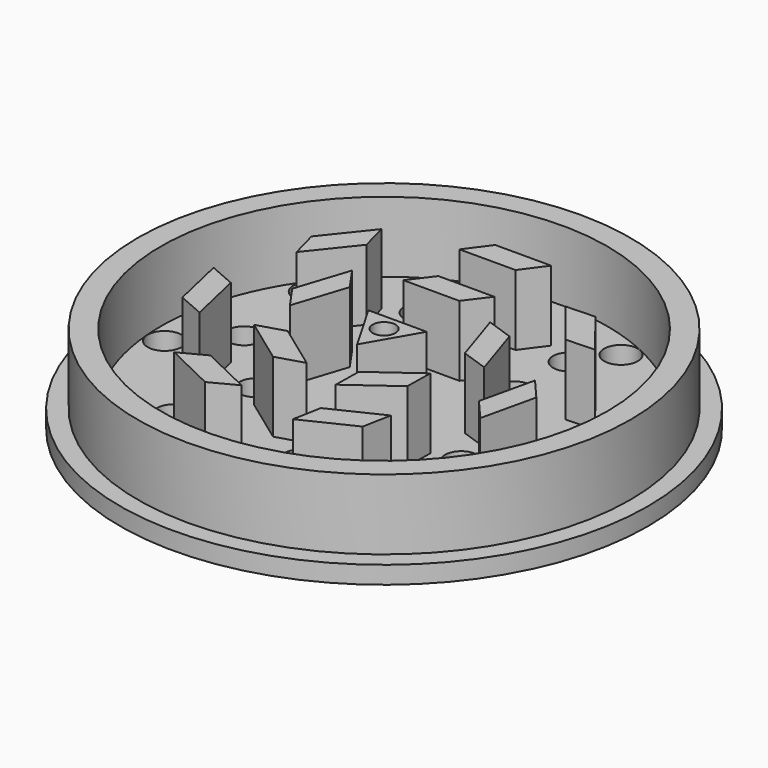
from build123d import *

# Parameters (mm, degrees)
F0_R     = 38.1
F2_DEPTH = 2.54
F1_R     = 35.56
F1_R_2   = 1.651
F3_DEPTH = 10.16
F4_R     = 2.4379748878
F4_R_2   = 2.3255862578
F4_R_3   = 2.3096296398
F5_DEPTH = 2.541
F6_R     = 33.02
F6_R_2   = 32.2280056546
F7_DEPTH = 10.16


with BuildPart() as f2:
    # F0 (on Top) → F2 (new body)
    with BuildSketch(Plane.XY):
        Circle(F0_R)
    extrude(amount=-F2_DEPTH)

    # F1 (on Top) → F3 (join)
    with BuildSketch(Plane.XY):
        Circle(F1_R)
        with BuildLine():
            ThreePointArc((31.0887399015, 11.1270234717), (32.5336025637, 5.6466896698), (33.02, 0))
            ThreePointArc((33.02, 0), (33.012710709, -0.6937806881), (32.9908460543, -1.3872550667))
            ThreePointArc((32.9908460543, -1.3872550667), (32.3733882594, -6.5026250548), (30.9676692654, -11.4596623105))
            ThreePointArc((30.9676692654, -11.4596623105), (28.197005304, -17.1828196722), (24.3807439254, -22.2688061118))
            ThreePointArc((24.3807439254, -22.2688061118), (20.6196473654, -25.7905126457), (16.3564820127, -28.6842447376))
            ThreePointArc((16.3564820127, -28.6842447376), (10.5552556409, -31.2874891667), (4.3626207519, -32.730535287))
            ThreePointArc((4.3626207519, -32.730535287), (-0.7822556928, -33.01073274), (-5.9080849557, -32.4871502622))
            ThreePointArc((-5.9080849557, -32.4871502622), (-12.0254154451, -30.7523947583), (-17.6968211565, -27.877283242))
            ThreePointArc((-17.6968211565, -27.877283242), (-21.8181326185, -24.7848641118), (-25.4081933124, -21.0889571246))
            ThreePointArc((-25.4081933124, -21.0889571246), (-28.9792609968, -15.8279130678), (-31.4757237675, -9.9799405466))
            ThreePointArc((-31.4757237675, -9.9799405466), (-32.6450628105, -4.9618821127), (-33.0195256375, 0.1769934293))
            ThreePointArc((-33.0195256375, 0.1769934293), (-32.3733882594, 6.5026250548), (-30.526785414, 12.5871272453))
            ThreePointArc((-30.526785414, 12.5871272453), (-28.197005304, 17.1828196722), (-25.1806549457, 21.3601267905))
            ThreePointArc((-25.1806549457, 21.3601267905), (-20.6196473654, 25.7905126457), (-15.2940248979, 29.2645383087))
            ThreePointArc((-15.2940248979, 29.2645383087), (-10.5552556409, 31.2874891667), (-5.559475953, 32.5486194351))
            ThreePointArc((-5.559475953, 32.5486194351), (0.7822556928, 33.01073274), (7.0949798421, 32.2487466584))
            ThreePointArc((7.0949798421, 32.2487466584), (12.0254154451, 30.7523947583), (16.6630436248, 28.5072513084))
            ThreePointArc((16.6630436248, 28.5072513084), (21.8181326185, 24.7848641118), (26.1641646621, 20.1434080418))
            ThreePointArc((26.1641646621, 20.1434080418), (28.9792609968, 15.8279130678), (31.0887399015, 11.1270234717))
        make_face(mode=Mode.SUBTRACT)
        Polygon((2.6006015495, 20.4516352474), (5.0752879427, 23.8023692852), (-3.0012168531, 23.8023692852), (-5.4759032463, 20.4516352474), align=None)
        Polygon((12.5755624743, 17.032619561), (17.6111808492, 10.7181538433), (21.7738319382, 10.8725146132), (16.7382135634, 17.1869803309), align=None)
        Polygon((21.157373157, 0.787693943), (19.3601817668, -7.0863160152), (22.0762363791, -10.2445653214), (23.8734277693, -2.3705553631), align=None)
        Polygon((13.8072503208, -16.05038128), (6.5305709383, -19.5546453798), (5.7547845533, -23.6472786179), (13.0314639358, -20.1430145181), align=None)
        Polygon((-3.9400136236, -20.8021920311), (-11.2166930061, -17.2979279313), (-14.9001374173, -19.2431087986), (-7.6234580348, -22.7473728984), align=None)
        Polygon((-18.7203669478, -9.8895278954), (-20.5175583381, -2.0155179371), (-24.3349520053, -0.348485566), (-22.537760615, -8.2224955243), align=None)
        Polygon((-19.4039021344, 8.4701524552), (-14.3682837595, 14.7846181728), (-15.4450513907, 18.8085544056), (-20.4806697656, 12.4940886879), align=None)
        Polygon((2.3585940213, 10.6214470988), (4.8124587489, 13.8745305248), (-3.2640460469, 13.8745305248), (-5.7179107745, 10.6214470988), align=None)
        Polygon((10.8304421112, 1.0390514452), (14.6825942043, -0.2894545314), (12.1868169672, 7.3917579835), (8.3346648742, 8.7202639601), align=None)
        Polygon((4.3349873167, -9.9792779897), (4.2618835124, -14.0534232634), (10.7959131473, -9.3061728544), (10.8690169516, -5.2320275806), align=None)
        Polygon((-8.1512726087, -7.206584426), (-12.0486053375, -8.3960387037), (-5.5145757026, -13.1432891127), (-1.6172429738, -11.953834835), align=None)
        Polygon((-9.3727508404, 5.5253638716), (-11.708331128, 8.8643859737), (-14.2041083651, 1.1831734587), (-11.8685280775, -2.1558486433), align=None)
        Polygon((0, -4.8615827019), (4.2102541225, 2.430791351), (-4.2102541225, 2.430791351), align=None)
        Circle(F1_R_2, mode=Mode.SUBTRACT)
    extrude(amount=F3_DEPTH)

    # F4 (on face) → F5 (cut, through all)
    with BuildSketch(Plane.XY):
        with Locations((-7.6389224268, 28.7674851716)):
            Circle(F4_R)
        with Locations((-24.3431371066, 17.1269674708)):
            Circle(F4_R)
        with Locations((-29.6569273904, -2.5274486545)):
            Circle(F4_R)
        with Locations((-21.0939117481, -20.999243465)):
            Circle(F4_R)
        with Locations((-2.6608203662, -29.6452588776)):
            Circle(F4_R)
        with Locations((17.0172984368, -24.419928191)):
            Circle(F4_R)
        with Locations((28.732834175, -7.7682417066)):
            Circle(F4_R)
        with Locations((27.0039574729, 12.5182914067)):
            Circle(F4_R)
        with Locations((12.6396289536, 26.9473768455)):
            Circle(F4_R)
        with Locations((-11.462688446, 20.8468269557)):
            Circle(F4_R_2)
        with Locations((-23.4455749715, 4.0358933071)):
            Circle(F4_R_2)
        with Locations((-17.7734653408, -15.8141503189)):
            Circle(F4_R_2)
        with Locations((1.2824262041, -23.7558162049)):
            Circle(F4_R_2)
        with Locations((19.3726246606, -13.8088679583)):
            Circle(F4_R_2)
        with Locations((22.8748416182, 6.5364395105)):
            Circle(F4_R_2)
        with Locations((9.1518362755, 21.9596747088)):
            Circle(F4_R_2)
        with Locations((-9.2776790261, 12.2433528304)):
            Circle(F4_R_3)
        with Locations((-14.5110809781, -5.0401930012)):
            Circle(F4_R_3)
        with Locations((0.3093377682, -15.358363415)):
            Circle(F4_R_3)
        with Locations((14.7022622328, -4.4517976009)):
            Circle(F4_R_3)
        with Locations((8.7771600032, 12.6070011866)):
            Circle(F4_R_3)
    extrude(amount=-F5_DEPTH, mode=Mode.SUBTRACT)

    # F6 (on face) → F7 (join, through all)
    with BuildSketch(Plane.XY):
        Circle(F6_R)
        Circle(F6_R_2, mode=Mode.SUBTRACT)
    extrude(amount=F7_DEPTH)


solid = f2.part
